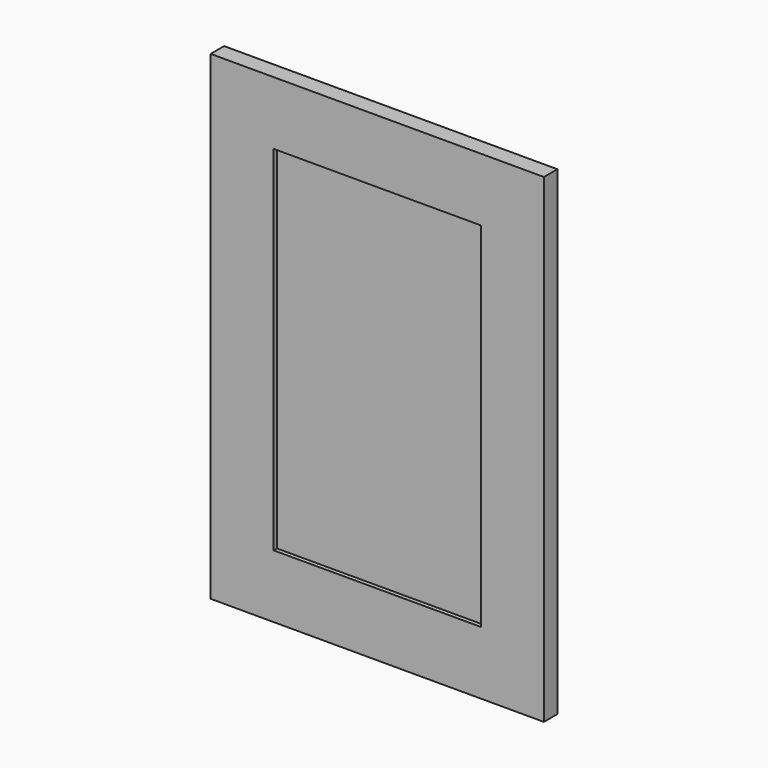
from build123d import *

# Parameters (mm, degrees)
F0_W     = 246
F0_H     = 420
F1_DEPTH = 15
F0_W_2   = 396
F0_H_2   = 570
F2_DEPTH = 20


with BuildPart() as f1:
    # F0 (on Front) → F1 (new body)
    with BuildSketch(Plane.XZ):
        Rectangle(F0_W, F0_H)
    extrude(amount=F1_DEPTH)

    # F0 (on Front) → F2 (join)
    with BuildSketch(Plane.XZ):
        Rectangle(F0_W_2, F0_H_2)
        Rectangle(F0_W, F0_H, mode=Mode.SUBTRACT)
    extrude(amount=F2_DEPTH)


solid = f1.part
